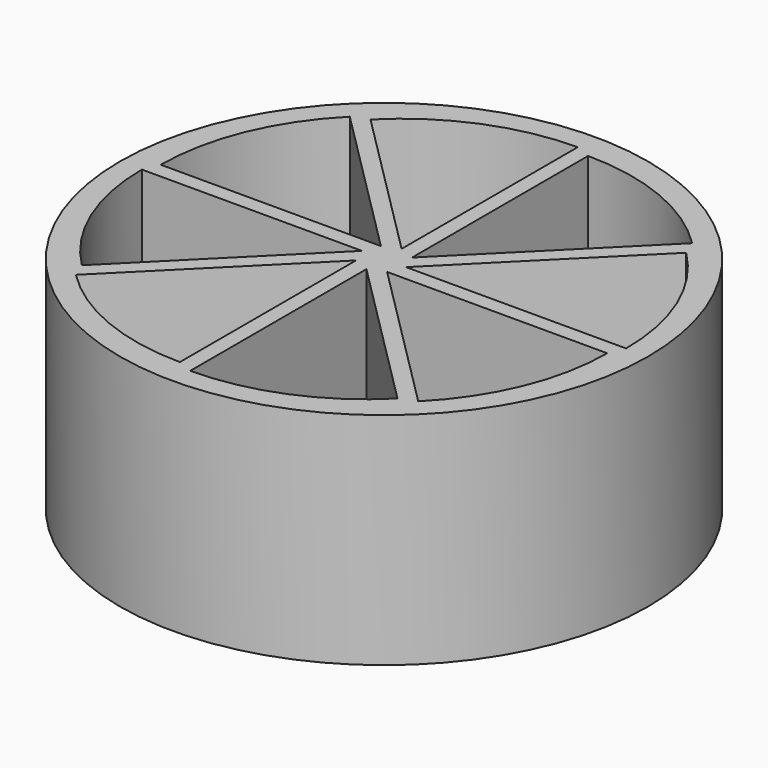
from build123d import *

# Parameters (mm, degrees)
CYLINDER001_W     = 10
CYLINDER001_H     = 10
CYLINDER001_ANGLE = 45
ARRAY_COUNT       = 8
CYLINDER_R        = 12
CYLINDER_DEPTH    = 10


with BuildPart() as array:
    # Cylinder001 → Cylinder001 (revolve)
    with BuildSketch(Plane(origin=(1, 0, 0), x_dir=(1, 0, 0), z_dir=(0, -1, 0))):
        with Locations((5, 5)):
            Rectangle(CYLINDER001_W, CYLINDER001_H)
    revolve(axis=Axis((1, 0, 0), (0, 0, 1)), revolution_arc=CYLINDER001_ANGLE)

    # Array: Array ×8 about axis
    array_axis = Axis((0, 0, 0), (0, 0, 1))


with BuildPart() as array_1:
    add(array.part)
    for i in range(1, ARRAY_COUNT):
        add(array.part.rotate(array_axis, i * 360 / ARRAY_COUNT))


with BuildPart() as array_2:
    # Array placement: moved
    add(array_1.part.moved(Location((0, 0, 1))))


with BuildPart() as cut:
    # Cylinder → Cylinder (new body)
    with BuildSketch(Plane.XY):
        Circle(CYLINDER_R)
    extrude(amount=CYLINDER_DEPTH)

    # Cut: cut Array
    add(array_2.part, mode=Mode.SUBTRACT)


solid = cut.part
